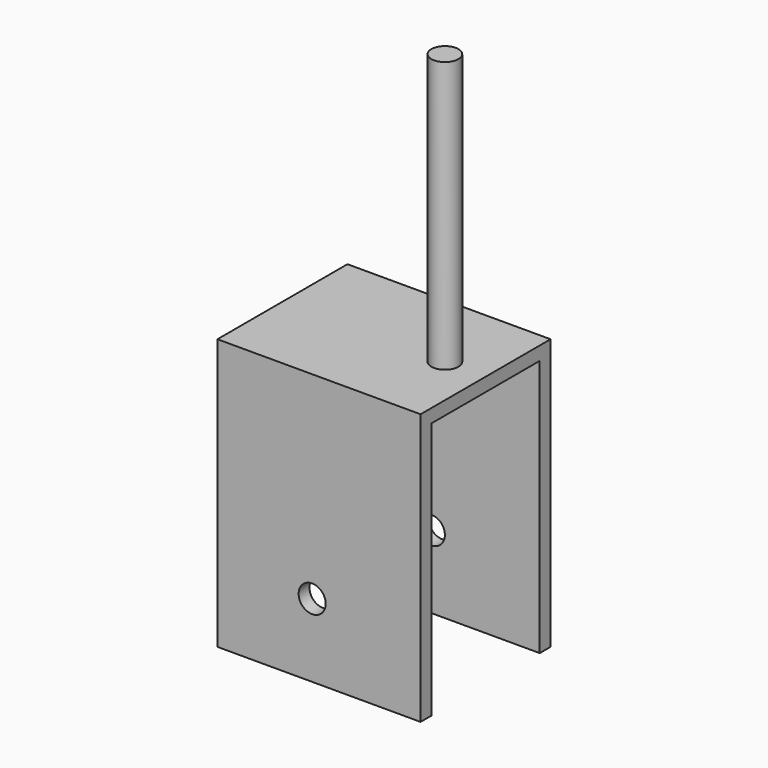
from build123d import *

# Parameters (mm, degrees)
F0_W     = 47.625
F0_H     = 38.1
F1_DEPTH = 63.5
F2_W     = 31.75
F2_H     = 60.325
F3_DEPTH = 47.625
F4_R     = 3.175
F5_DEPTH = 63.5
F6_R     = 3.175
F7_DEPTH = 45.974


with BuildPart() as f1:
    # F0 (on Top) → F1 (new body)
    with BuildSketch(Plane.XY):
        with Locations((23.8125, 19.05)):
            Rectangle(F0_W, F0_H)
    extrude(amount=F1_DEPTH)

    # F2 (on face) → F3 (cut)
    with BuildSketch(Plane.YZ.offset(47.625)):
        with Locations((19.05, 30.1625)):
            Rectangle(F2_W, F2_H)
    extrude(amount=-F3_DEPTH, mode=Mode.SUBTRACT)

    # F4 (on face) → F5 (join)
    with BuildSketch(Plane.XY.offset(63.5)):
        with Locations((38.1, 19.05)):
            Circle(F4_R)
    extrude(amount=F5_DEPTH)

    # F6 (on face) → F7 (cut)
    with BuildSketch(Plane.XZ):
        with Locations((22.212138, 17.145)):
            Circle(F6_R)
    extrude(amount=-F7_DEPTH, mode=Mode.SUBTRACT)


solid = f1.part
